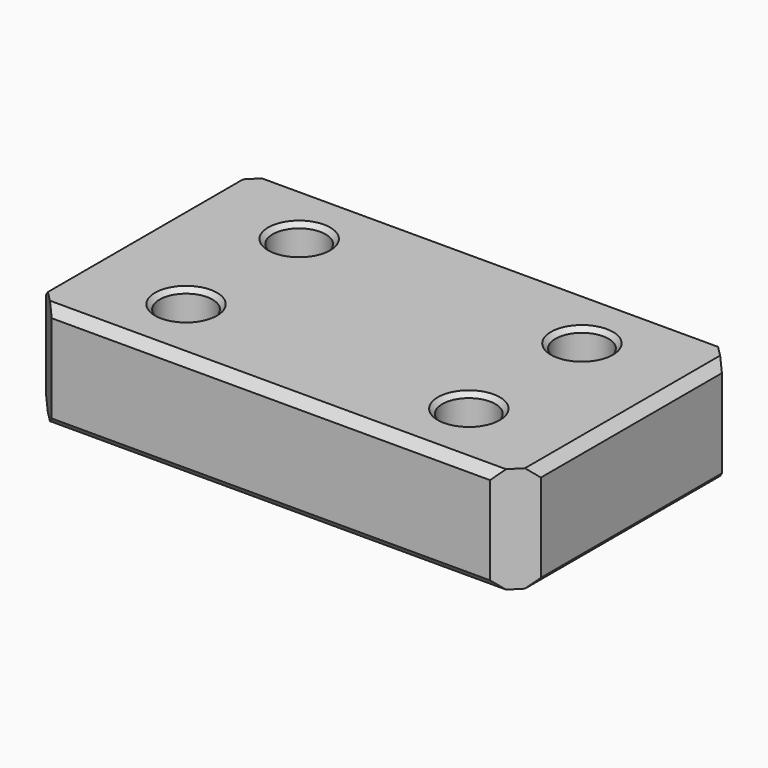
from build123d import *

# Parameters (mm, degrees)
F0_W     = 88.9
F0_H     = 50.8
F0_R     = 4.7625
F1_DEPTH = 19.05
F2_SIZE  = 5.08
F3_SIZE  = 0.8128
F4_SIZE  = 1.6002


with BuildPart() as f1:
    # F0 (on Top) → F1 (new body)
    with BuildSketch(Plane.XY):
        Rectangle(F0_W, F0_H)
        with Locations((-25.4, -12.7)):
            Circle(F0_R, mode=Mode.SUBTRACT)
        with Locations((25.4, -12.7)):
            Circle(F0_R, mode=Mode.SUBTRACT)
        with Locations((-25.4, 12.7)):
            Circle(F0_R, mode=Mode.SUBTRACT)
        with Locations((25.4, 12.7)):
            Circle(F0_R, mode=Mode.SUBTRACT)
    extrude(amount=F1_DEPTH)

    # F2
    f2_edges = [f1.edges().sort_by_distance(p)[0] for p in [
        (44.45, -25.4, 9.525),
        (44.45, 25.4, 9.525),
        (-44.45, 25.4, 9.525),
        (-44.45, -25.4, 9.525),
    ]]
    chamfer(f2_edges, length=F2_SIZE)

    # F3
    f3_edges = [f1.edges().sort_by_distance(p)[0] for p in [
        (-30.1625, 12.7, 19.05),
        (-30.1625, 12.7, 0),
        (20.6375, 12.7, 19.05),
        (20.6375, 12.7, 0),
        (20.6375, -12.7, 19.05),
        (20.6375, -12.7, 0),
        (-30.1625, -12.7, 19.05),
        (-30.1625, -12.7, 0),
    ]]
    chamfer(f3_edges, length=F3_SIZE)

    # F4
    f4_edges = [f1.edges().sort_by_distance(p)[0] for p in [
        (0, -25.4, 19.05),
        (-44.45, 0, 19.05),
        (0, 25.4, 19.05),
        (-44.45, 0, 0),
        (0, -25.4, 0),
        (44.45, 0, 19.05),
        (44.45, 0, 0),
        (0, 25.4, 0),
    ]]
    chamfer(f4_edges, length=F4_SIZE)


solid = f1.part
